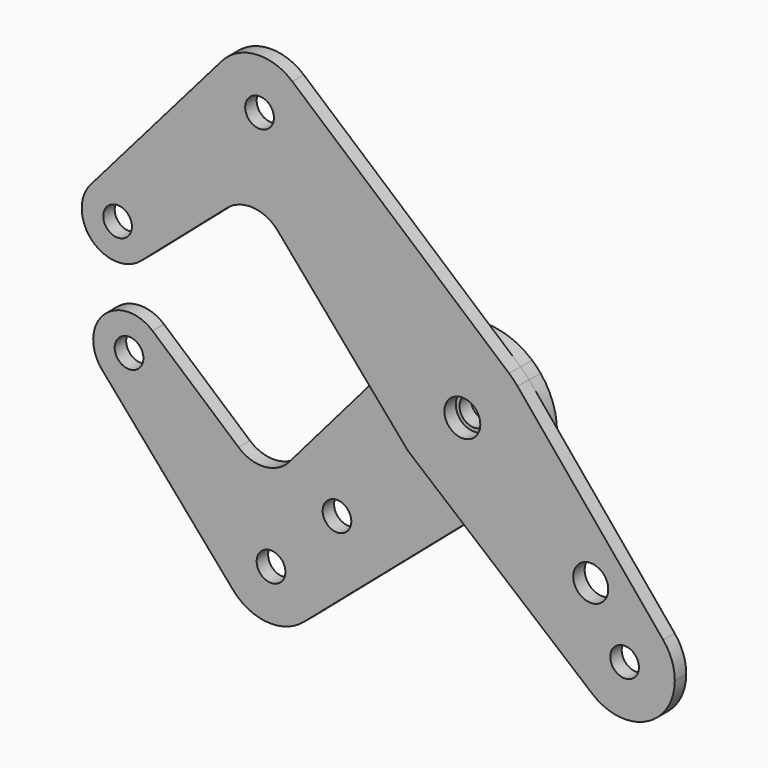
from build123d import *

# Parameters (mm, degrees)
F0_R     = 3.175
F0_R_2   = 3.9751
F1_DEPTH = 3.175
F2_DEPTH = 3.175


with BuildPart() as f1:
    # F0 (on Front) → F1 (new body)
    with BuildSketch(Plane.XZ):
        with BuildLine():
            ThreePointArc((-82.331405076, 18.6678036462), (-73.5586383483, 20.9075469092), (-68.3946770291, 13.4703841816))
            ThreePointArc((-68.3946770291, 13.4703841816), (-69.1121208226, 10.1727039932), (-71.1347575644, 7.4711561347))
            Line((-71.1347575644, 7.4711561347), (-52.0843267669, 23.9754595323))
            ThreePointArc((-52.0843267669, 23.9754595323), (-46.2965222838, 25.8954961667), (-40.8511612346, 23.1508168672))
            Line((-40.8511612346, 23.1508168672), (-20.9391765456, 0))
            Line((-20.9391765456, 0), (-12.0356033222, 10.3518055271))
            ThreePointArc((-12.0356033222, 10.3518055271), (-1.1906249195, 15.8302886045), (10.3518054047, 12.0356034274))
            Line((10.3518054047, 12.0356034274), (-37.655016822, 53.3262030046))
            ThreePointArc((-37.655016822, 53.3262030046), (-34.8014845049, 49.5361241819), (-33.7887806053, 44.9012806053))
            ThreePointArc((-33.7887806053, 44.9012806053), (-48.7842347585, 34.4892527868), (-53.300199871, 52.1776678558))
            Line((-53.300199871, 52.1776678558), (-82.331405076, 18.6678036462))
        make_face()
        with BuildLine():
            ThreePointArc((-37.655016822, 53.3262030046), (-45.7148756595, 55.9839571475), (-53.300199871, 52.1776678558))
            ThreePointArc((-53.300199871, 52.1776678558), (-48.7842347585, 34.4892527868), (-33.7887806053, 44.9012806053))
            ThreePointArc((-33.7887806053, 44.9012806053), (-34.8014845049, 49.5361241819), (-37.655016822, 53.3262030046))
        make_face()
        with Locations((-44.9012806053, 44.9012806053)):
            Circle(F0_R, mode=Mode.SUBTRACT)
        with BuildLine():
            ThreePointArc((-71.1347575644, 7.4711561347), (-69.1121208226, 10.1727039932), (-68.3946770291, 13.4703841816))
            ThreePointArc((-68.3946770291, 13.4703841816), (-73.5586383483, 20.9075469092), (-82.331405076, 18.6678036462))
            ThreePointArc((-82.331405076, 18.6678036462), (-81.9448371048, 7.8577241059), (-71.1347575644, 7.4711561347))
        make_face()
        with Locations((-76.3321770291, 13.4703841816)):
            Circle(F0_R, mode=Mode.SUBTRACT)
        with BuildLine():
            ThreePointArc((12.2282550252, 10.1235074968), (11.3304373246, 11.1192092809), (10.3518054047, 12.0356034274))
            ThreePointArc((10.3518054047, 12.0356034274), (-1.1906249195, 15.8302886045), (-12.0356033222, 10.3518055271))
            ThreePointArc((-12.0356033222, 10.3518055271), (-15.875, 8.07e-08), (-12.0356034274, -10.3518054047))
            Line((-12.0356034274, -10.3518054047), (-8.0396721793, -13.6886557503))
            ThreePointArc((-8.0396721793, -13.6886557503), (1.4211385228, -15.8112615025), (10.3518049721, -12.0356037995))
            ThreePointArc((10.3518049721, -12.0356037995), (14.4282800245, -6.6212053686), (15.875, 0))
            ThreePointArc((15.875, 0), (14.9355142785, 5.3801522504), (12.2282550252, 10.1235074968))
        make_face()
        Circle(F0_R_2, mode=Mode.SUBTRACT)
        with BuildLine():
            ThreePointArc((47.0335244843, -35.9210244843), (46.3758844792, -32.154917909), (44.4808030019, -28.8345692365))
            ThreePointArc((44.4808030019, -28.8345692365), (37.8866667262, -24.9837530317), (30.3643454707, -26.2975648886))
            ThreePointArc((30.3643454707, -26.2975648886), (24.8496477325, -34.9658946135), (28.7982771588, -44.4506274521))
            ThreePointArc((28.7982771588, -44.4506274521), (40.6293217665, -45.9867878906), (47.0335244843, -35.9210244843))
        make_face()
        with Locations((35.9210244843, -35.9210244843)):
            Circle(F0_R, mode=Mode.SUBTRACT)
        with BuildLine():
            Line((44.4808030019, -28.8345692365), (12.2282550252, 10.1235074968))
            ThreePointArc((12.2282550252, 10.1235074968), (14.9355142785, 5.3801522504), (15.875, 0))
            ThreePointArc((15.875, 0), (14.4282800245, -6.6212053686), (10.3518049721, -12.0356037995))
            Line((10.3518049721, -12.0356037995), (0.316722829, -20.6667636904))
            Line((0.316722829, -20.6667636904), (28.7982771588, -44.4506274521))
            ThreePointArc((28.7982771588, -44.4506274521), (24.8496477325, -34.9658946135), (30.3643454707, -26.2975648886))
            ThreePointArc((30.3643454707, -26.2975648886), (37.8866667262, -24.9837530317), (44.4808030019, -28.8345692365))
        make_face()
        with BuildLine():
            ThreePointArc((32.3039927423, -22.9378244059), (31.7842689248, -24.8775465283), (30.3643454707, -26.2975648886))
            ThreePointArc((30.3643454707, -26.2975648886), (25.064528655, -20.9981022834), (32.3039927423, -22.9378244059))
        make_face(mode=Mode.SUBTRACT)
        with BuildLine():
            Line((-12.0356033222, 10.3518055271), (-20.9391765456, 0))
            Line((-20.9391765456, 0), (-12.0356034274, -10.3518054047))
            ThreePointArc((-12.0356034274, -10.3518054047), (-15.875, 8.07e-08), (-12.0356033222, 10.3518055271))
        make_face()
        with BuildLine():
            ThreePointArc((10.3518049721, -12.0356037995), (1.4211385228, -15.8112615025), (-8.0396721793, -13.6886557503))
            Line((-8.0396721793, -13.6886557503), (0.316722829, -20.6667636904))
            Line((0.316722829, -20.6667636904), (10.3518049721, -12.0356037995))
        make_face()
    extrude(amount=F1_DEPTH)


with BuildPart() as f2:
    # F0 (on Front) → F2 (new body)
    with BuildSketch(Plane.XZ):
        with BuildLine():
            Line((-12.0356034274, -10.3518054047), (-20.9391765456, 0))
            Line((-20.9391765456, 0), (-40.8511612346, -23.1508168672))
            ThreePointArc((-40.8511612346, -23.1508168672), (-46.2965222838, -25.8954961667), (-52.0843267669, -23.9754595323))
            Line((-52.0843267669, -23.9754595323), (-71.1347575644, -7.4711561347))
            ThreePointArc((-71.1347575644, -7.4711561347), (-69.1121208226, -10.1727039932), (-68.3946770291, -13.4703841816))
            ThreePointArc((-68.3946770291, -13.4703841816), (-73.5586383483, -20.9075469092), (-82.331405076, -18.6678036462))
            Line((-82.331405076, -18.6678036462), (-53.300199871, -52.1776678559))
            ThreePointArc((-53.300199871, -52.1776678559), (-48.7842347585, -34.4892527868), (-33.7887806053, -44.9012806053))
            ThreePointArc((-33.7887806053, -44.9012806053), (-34.8014845049, -49.5361241819), (-37.655016822, -53.3262030046))
            Line((-37.655016822, -53.3262030046), (0.316722829, -20.6667636904))
            Line((0.316722829, -20.6667636904), (-8.0396721793, -13.6886557503))
            ThreePointArc((-8.0396721793, -13.6886557503), (-10.175353322, -12.1851470968), (-12.0356034274, -10.3518054047))
        make_face()
        with Locations((-30.2993841525, -30.2993841525)):
            Circle(F0_R, mode=Mode.SUBTRACT)
        with BuildLine():
            ThreePointArc((-53.300199871, -52.1776678559), (-45.7148756595, -55.9839571475), (-37.655016822, -53.3262030046))
            ThreePointArc((-37.655016822, -53.3262030046), (-34.8014845049, -49.5361241819), (-33.7887806053, -44.9012806053))
            ThreePointArc((-33.7887806053, -44.9012806053), (-48.7842347585, -34.4892527868), (-53.300199871, -52.1776678559))
        make_face()
        with Locations((-44.9012806053, -44.9012806053)):
            Circle(F0_R, mode=Mode.SUBTRACT)
        with BuildLine():
            ThreePointArc((-68.3946770291, -13.4703841816), (-69.1121208226, -10.1727039932), (-71.1347575644, -7.4711561347))
            ThreePointArc((-71.1347575644, -7.4711561347), (-81.9448371048, -7.8577241059), (-82.331405076, -18.6678036462))
            ThreePointArc((-82.331405076, -18.6678036462), (-73.5586383483, -20.9075469092), (-68.3946770291, -13.4703841816))
        make_face()
        with Locations((-76.3321770291, -13.4703841816)):
            Circle(F0_R, mode=Mode.SUBTRACT)
        with BuildLine():
            ThreePointArc((10.3518049721, -12.0356037995), (1.4211385228, -15.8112615025), (-8.0396721793, -13.6886557503))
            Line((-8.0396721793, -13.6886557503), (0.316722829, -20.6667636904))
            Line((0.316722829, -20.6667636904), (10.3518049721, -12.0356037995))
        make_face()
        with BuildLine():
            Line((-12.0356033222, 10.3518055271), (-20.9391765456, 0))
            Line((-20.9391765456, 0), (-12.0356034274, -10.3518054047))
            ThreePointArc((-12.0356034274, -10.3518054047), (-15.875, 8.07e-08), (-12.0356033222, 10.3518055271))
        make_face()
        with BuildLine():
            ThreePointArc((12.2282550252, 10.1235074968), (11.3304373246, 11.1192092809), (10.3518054047, 12.0356034274))
            ThreePointArc((10.3518054047, 12.0356034274), (-1.1906249195, 15.8302886045), (-12.0356033222, 10.3518055271))
            ThreePointArc((-12.0356033222, 10.3518055271), (-15.875, 8.07e-08), (-12.0356034274, -10.3518054047))
            Line((-12.0356034274, -10.3518054047), (-8.0396721793, -13.6886557503))
            ThreePointArc((-8.0396721793, -13.6886557503), (1.4211385228, -15.8112615025), (10.3518049721, -12.0356037995))
            ThreePointArc((10.3518049721, -12.0356037995), (14.4282800245, -6.6212053686), (15.875, 0))
            ThreePointArc((15.875, 0), (14.9355142785, 5.3801522504), (12.2282550252, 10.1235074968))
        make_face()
        Circle(F0_R_2, mode=Mode.SUBTRACT)
        Circle(F0_R_2)
        Circle(F0_R, mode=Mode.SUBTRACT)
    extrude(amount=-F2_DEPTH)


solid = Compound([f1.part, f2.part])
